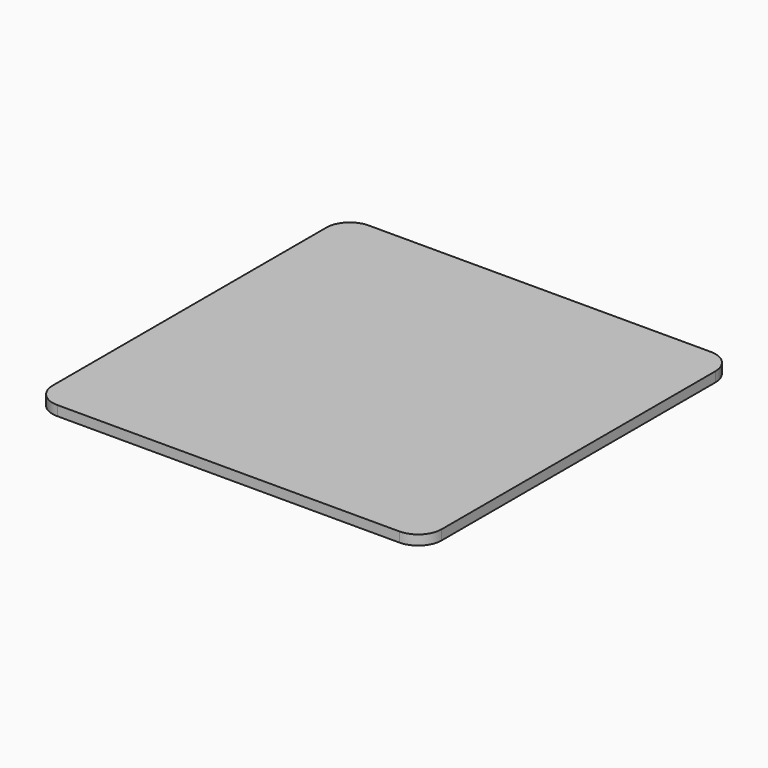
from build123d import *

# Parameters (mm, degrees)
F0_R     = 22.5
F0_R_2   = 17.5
F1_DEPTH = 12
F2_SIZE2 = 3.0573068146
F2_SIZE  = 10
F4_W     = 83
F4_H     = 83
F5_DEPTH = 2.1
F6_R     = 5


with BuildPart() as f1:
    # F0 (on Top) → F1 (new body)
    with BuildSketch(Plane.XY):
        Circle(F0_R)
        Circle(F0_R_2, mode=Mode.SUBTRACT)
    extrude(amount=F1_DEPTH)

    # F2
    f2_edges = [f1.edges().sort_by_distance(p)[0] for p in [
        (-22.5, 0, 0),
    ]]
    f2_side = f1.faces().sort_by_distance((-22.5, 0, 6))[0]
    chamfer(f2_edges, length=F2_SIZE, length2=F2_SIZE2, reference=f2_side)

    # F4 (on offset) → F5 (join)
    with BuildSketch(Plane.XY.offset(14.1)):
        with Locations((15.3470120901, -0.4123098433)):
            Rectangle(F4_W, F4_H)
    extrude(amount=-F5_DEPTH)

    # F6
    f6_edges = [f1.edges().sort_by_distance(p)[0] for p in [
        (-26.152988, -41.91231, 13.05),
        (56.847012, -41.91231, 13.05),
        (-26.152988, 41.08769, 13.05),
        (56.847012, 41.08769, 13.05),
    ]]
    fillet(f6_edges, radius=F6_R)


solid = f1.part
